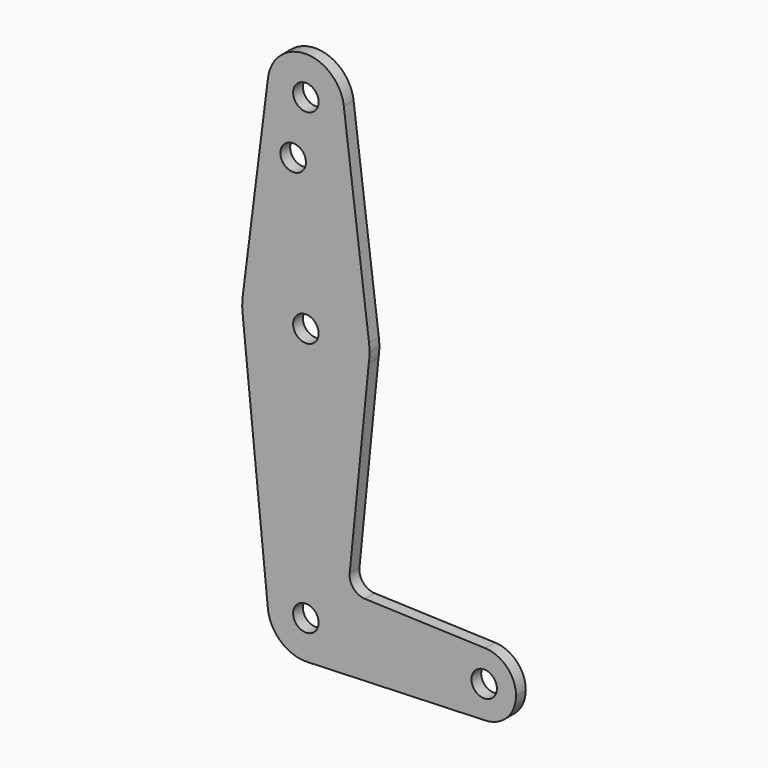
from build123d import *

# Parameters (mm, degrees)
F0_R     = 3.175
F1_DEPTH = 3.048


with BuildPart() as f1:
    # F0 (on Front) → F1 (new body)
    with BuildSketch(Plane.XZ):
        with BuildLine():
            ThreePointArc((9.477255, -0.9525), (9.513056, -0.476848), (9.525, 0))
            ThreePointArc((9.525, 0), (-0.476848, 9.513056), (-9.477255, -0.9525))
            ThreePointArc((-9.477255, -0.9525), (-6.262383, -7.17692), (0.340179, -9.518923))
            ThreePointArc((0.340179, -9.518923), (6.514707, -6.948685), (9.477255, -0.9525))
        make_face()
        Circle(F0_R, mode=Mode.SUBTRACT)
        with BuildLine():
            ThreePointArc((-9.477255, -0.9525), (-0.476848, 9.513056), (9.525, 0))
            ThreePointArc((9.525, 0), (9.513056, -0.476848), (9.477255, -0.9525))
            ThreePointArc((9.477255, -0.9525), (6.514707, -6.948685), (0.340179, -9.518923))
            Line((0.340179, -9.518923), (44.733482, -7.932436))
            ThreePointArc((44.733482, -7.932436), (36.5125, 0), (44.733482, 7.932436))
            Line((44.733482, 7.932436), (14.730403, 9.004659))
            ThreePointArc((14.730403, 9.004659), (11.877203, 10.363721), (10.917196, 13.374733))
            Line((10.917196, 13.374733), (15.674276, 60.983513))
            ThreePointArc((15.674276, 60.983513), (-0.468427, 47.631912), (-15.795426, 61.9125))
            Line((-15.795426, 61.9125), (-9.477255, -0.9525))
        make_face()
        with BuildLine():
            ThreePointArc((-15.750488, 65.484375), (-15.873744, 63.699705), (-15.795426, 61.9125))
            ThreePointArc((-15.795426, 61.9125), (-0.468427, 47.631912), (15.674276, 60.983513))
            ThreePointArc((15.674276, 60.983513), (15.824739, 62.23776), (15.875, 63.5))
            ThreePointArc((15.875, 63.5), (15.843841, 64.494139), (15.750488, 65.484375))
            ThreePointArc((15.750488, 65.484375), (0, 79.375), (-15.750488, 65.484375))
        make_face()
        with Locations((0, 63.5)):
            Circle(F0_R, mode=Mode.SUBTRACT)
        with BuildLine():
            ThreePointArc((44.733482, 7.932436), (36.5125, 0), (44.733482, -7.932436))
            ThreePointArc((44.733482, -7.932436), (50.162007, -5.511523), (52.3875, 0))
            ThreePointArc((52.3875, 0), (50.162007, 5.511523), (44.733482, 7.932436))
        make_face()
        with Locations((44.45, 0)):
            Circle(F0_R, mode=Mode.SUBTRACT)
        with BuildLine():
            Line((-9.450293, 115.490625), (-15.750488, 65.484375))
            ThreePointArc((-15.750488, 65.484375), (0, 79.375), (15.750488, 65.484375))
            Line((15.750488, 65.484375), (9.450293, 115.490625))
            ThreePointArc((9.450293, 115.490625), (9.506305, 114.896483), (9.525, 114.3))
            ThreePointArc((9.525, 114.3), (-0.596483, 104.793695), (-9.450293, 115.490625))
        make_face()
        with Locations((-3.175, 100.0252)):
            Circle(F0_R, mode=Mode.SUBTRACT)
        with BuildLine():
            ThreePointArc((9.450293, 115.490625), (0, 123.825), (-9.450293, 115.490625))
            ThreePointArc((-9.450293, 115.490625), (-0.596483, 104.793695), (9.525, 114.3))
            ThreePointArc((9.525, 114.3), (9.506305, 114.896483), (9.450293, 115.490625))
        make_face()
        with Locations((0, 114.3)):
            Circle(F0_R, mode=Mode.SUBTRACT)
    extrude(amount=F1_DEPTH)


solid = f1.part
